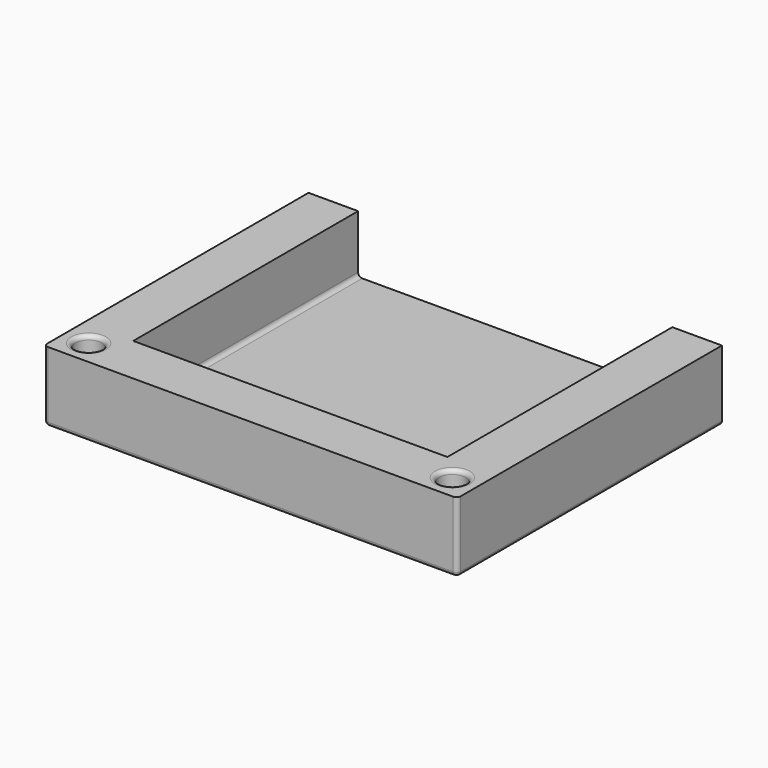
from build123d import *

# Parameters (mm, degrees)
F1_DEPTH = 17
F4_DEPTH = 14
F3_R     = 3.2
F5_DEPTH = 10
F7_R     = 3.2
F8_DEPTH = 10
F9_R     = 1


with BuildPart() as f1:
    # F0 (on Top) → F1 (new body)
    with BuildSketch(Plane.XY):
        Polygon((0, 80), (0, 0), (50, 0), (100, 0), (100, 80), (50, 80), align=None)
    extrude(amount=F1_DEPTH)

    # F3 (on offset) → F4 (cut)
    with BuildSketch(Plane.XY.offset(17)):
        Polygon((50, 80), (12, 80), (12, 12), (50, 12), (88, 12), (88, 80), align=None)
    extrude(amount=-F4_DEPTH, mode=Mode.SUBTRACT)

    # F3 (on offset) → F5 (cut)
    with BuildSketch(Plane.XY.offset(17)):
        with Locations((6, 6)):
            Circle(F3_R)
        with Locations((94, 6)):
            Circle(F3_R)
    extrude(amount=-F5_DEPTH, mode=Mode.SUBTRACT)

    # F7 (on offset) → F8 (cut)
    with BuildSketch(Plane.XZ.offset(-80)):
        with Locations((94, 6)):
            Circle(F7_R)
        with Locations((6, 6)):
            Circle(F7_R)
    extrude(amount=F8_DEPTH, mode=Mode.SUBTRACT)

    # F9
    f9_edges = [f1.edges().sort_by_distance(p)[0] for p in [
        (12, 46, 3),
        (88, 46, 3),
        (50, 12, 3),
        (90.8, 6, 17),
        (2.8, 6, 17),
        (90.8, 80, 6),
        (2.8, 80, 6),
        (100, 40, 0),
        (50, 0, 0),
        (0, 40, 0),
        (100, 0, 8.5),
        (0, 0, 8.5),
    ]]
    fillet(f9_edges, radius=F9_R)


solid = f1.part
